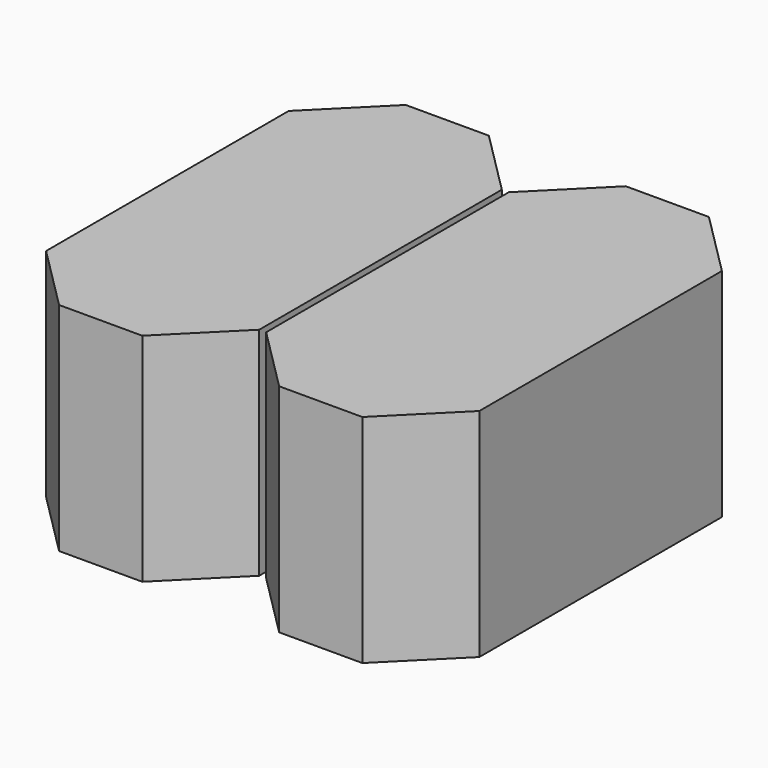
from build123d import *

# Parameters (mm, degrees)
BOX025_W         = 2.54
BOX025_H         = 3.2
BOX025_DEPTH     = 2.3
BOX023_W         = 2.46
BOX023_H         = 5
BOX023_DEPTH     = 2.5
CHAMFER004_SIZE  = 0.75
ARRAY010_X_COUNT = 2
ARRAY010_X_PITCH = 2.54


with BuildPart() as cube001:
    # Box025 → Box025 (new body)
    with BuildSketch(Plane(origin=(0, -0.33, 0.1), x_dir=(1, 0, 0), z_dir=(0, 0, 1))):
        with Locations((1.27, 1.6)):
            Rectangle(BOX025_W, BOX025_H)
    extrude(amount=BOX025_DEPTH)


with BuildPart() as body:
    # Box023 → Box023 (new body)
    with BuildSketch(Plane(origin=(-1.23, -1.23, 0), x_dir=(1, 0, 0), z_dir=(0, 0, 1))):
        with Locations((1.23, 2.5)):
            Rectangle(BOX023_W, BOX023_H)
    extrude(amount=BOX023_DEPTH)

    # Chamfer004
    chamfer004_edges = [body.edges().sort_by_distance(p)[0] for p in [
        (-1.23, -1.23, 1.25),
        (-1.23, 3.77, 1.25),
        (1.23, -1.23, 1.25),
        (1.23, 3.77, 1.25),
    ]]
    chamfer(chamfer004_edges, length=CHAMFER004_SIZE)

    # Array010 X: Body ×2


with BuildPart() as body_1:
    add(body.part)
    with Locations(*[(i * ARRAY010_X_PITCH, 0, 0) for i in range(1, ARRAY010_X_COUNT)]):
        add(body.part)

    # Fusion021: union Cube001
    add(cube001.part)


solid = body_1.part
